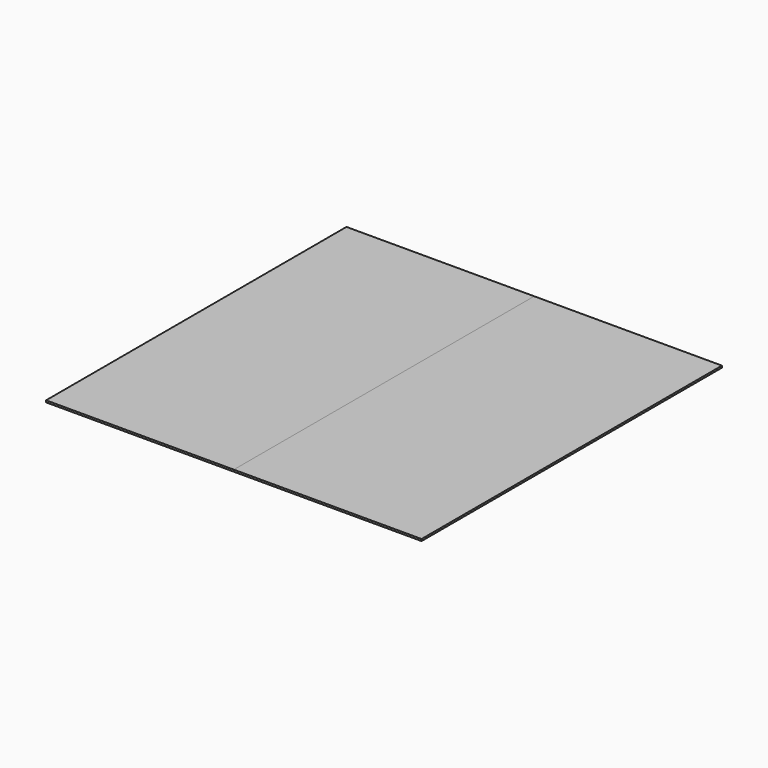
from build123d import *

# Parameters (mm, degrees)
F1_DEPTH = 2.54
F2_DEPTH = 2.54


with BuildPart() as f1:
    # F0 (on Top) → F1 (new body)
    with BuildSketch(Plane.XY):
        Polygon((0, -254), (0, 254), (-254, 254), (-254, 0), (-254, -254), align=None)
    extrude(amount=F1_DEPTH)


with BuildPart() as f2:
    # F0 (on Top) → F2 (new body)
    with BuildSketch(Plane.XY):
        Polygon((254, 254), (0, 254), (0, -254), (254, -254), (254, 0), align=None)
    extrude(amount=F2_DEPTH)


solid = Compound([f1.part, f2.part])
